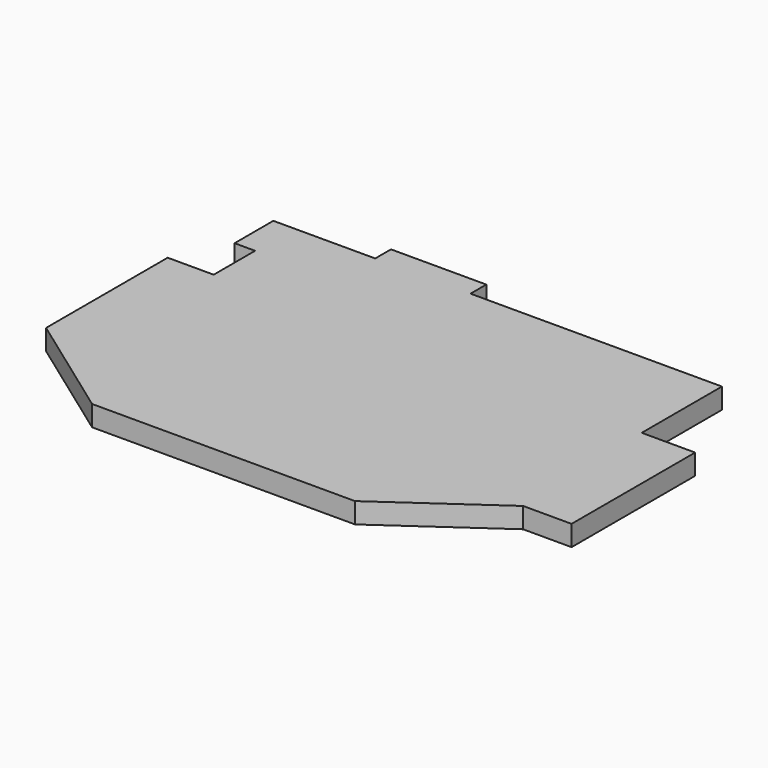
from build123d import *

# Parameters (mm, degrees)
F3_DEPTH = 25


with BuildPart() as f3:
    # F2 (on Top) → F3 (new body)
    with BuildSketch(Plane.XY):
        Polygon((-422, 0), (-546, 0), (-546, -59), (-521, -59), (-521, -122), (-546, -122), (-577, -122), (-577, -307), (-445, -402), (-125, -402), (6, -310), (65, -310), (65, -122), (0, -122), (0, -113), (0, 0), (-306, 0), (-306, 24), (-422, 24), align=None)
    extrude(amount=F3_DEPTH)


solid = f3.part
